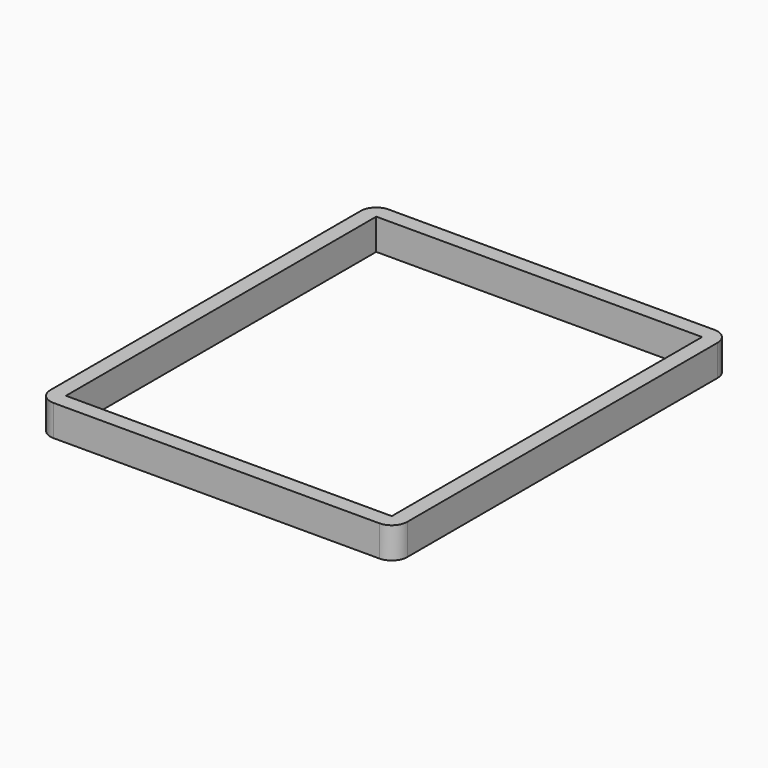
from build123d import *

# Parameters (mm, degrees)
F0_W     = 23
F0_H     = 27
F1_DEPTH = 2
F2_W     = 21
F2_H     = 25
F3_DEPTH = 2.001
F4_R     = 1


with BuildPart() as f1:
    # F0 (on Top) → F1 (new body)
    with BuildSketch(Plane.XY):
        with Locations((11.5, 13.5)):
            Rectangle(F0_W, F0_H)
    extrude(amount=F1_DEPTH)

    # F2 (on face) → F3 (cut, through all)
    with BuildSketch(Plane.XY.offset(2)):
        with Locations((11.5, 13.5)):
            Rectangle(F2_W, F2_H)
    extrude(amount=-F3_DEPTH, mode=Mode.SUBTRACT)

    # F4
    f4_edges = [f1.edges().sort_by_distance(p)[0] for p in [
        (23, 0, 1),
        (23, 27, 1),
        (0, 0, 1),
        (0, 27, 1),
    ]]
    fillet(f4_edges, radius=F4_R)


solid = f1.part
